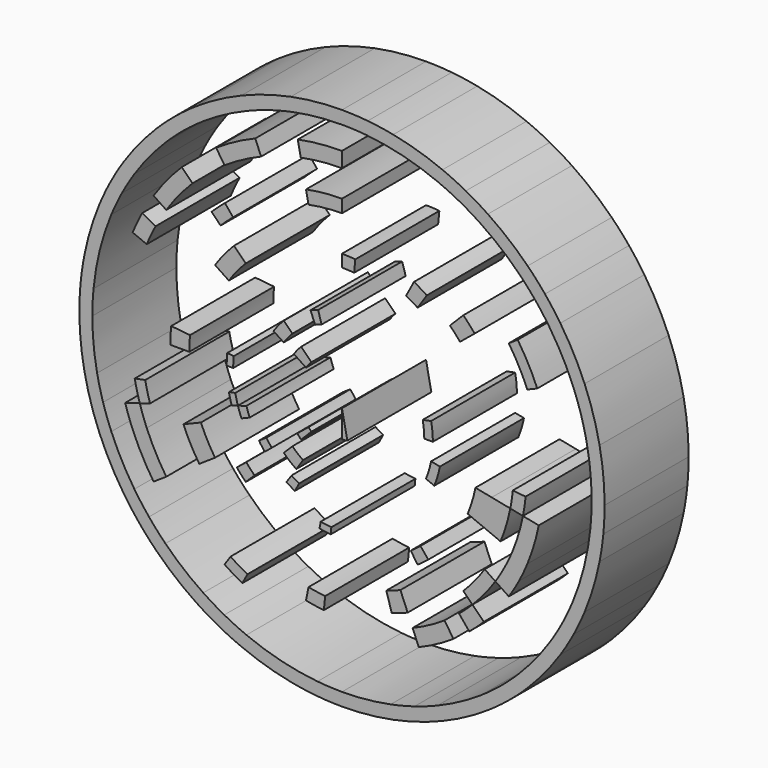
from build123d import *

# Parameters (mm, degrees)
F1_DEPTH = 25.4


with BuildPart() as f1:
    # F0 (on Front) → F1 (new body)
    with BuildSketch(Plane.XZ):
        with BuildLine():
            Line((60.3669561886, 0), (63.5, 0))
            ThreePointArc((63.5, 0), (63.1942301437, 6.2240884109), (62.2798653056, 12.388235448))
            Line((62.2798653056, 12.388235448), (59.2070220526, 11.777008922))
            ThreePointArc((59.2070220526, 11.777008922), (60.0762727946, 5.916996416), (60.3669561886, 0))
        make_face()
        with BuildLine():
            ThreePointArc((63.1942301437, -6.2240884109), (63.423511469, -3.1157973198), (63.5, 0))
            Line((63.5, 0), (60.3669561886, 0))
            ThreePointArc((60.3669561886, 0), (60.2942415462, -2.9620661464), (60.0762727946, -5.916996416))
            Line((60.0762727946, -5.916996416), (63.1942301437, -6.2240884109))
        make_face()
        with BuildLine():
            Line((59.2070220526, 11.777008922), (62.2798653056, 12.388235448))
            ThreePointArc((62.2798653056, 12.388235448), (61.5969845779, 15.4292414239), (60.765711319, 18.4330770057))
            Line((60.765711319, 18.4330770057), (57.7675753223, 17.5236023941))
            ThreePointArc((57.7675753223, 17.5236023941), (58.5578341632, 14.6679738749), (59.2070220526, 11.777008922))
        make_face()
        with BuildLine():
            ThreePointArc((62.2798653056, -12.388235448), (62.8127083828, -9.3173851279), (63.1942301437, -6.2240884109))
            Line((63.1942301437, -6.2240884109), (60.0762727946, -5.916996416))
            ThreePointArc((60.0762727946, -5.916996416), (59.7135750399, -8.857672123), (59.2070220526, -11.777008922))
            Line((59.2070220526, -11.777008922), (62.2798653056, -12.388235448))
        make_face()
        with BuildLine():
            Line((57.7675753223, 17.5236023941), (60.765711319, 18.4330770057))
            ThreePointArc((60.765711319, 18.4330770057), (59.7880481391, 21.3925056904), (58.6663503145, 24.3003979552))
            Line((58.6663503145, 24.3003979552), (55.7717952627, 23.1014339957))
            ThreePointArc((55.7717952627, 23.1014339957), (56.8381493326, 20.3370150201), (57.7675753223, 17.5236023941))
        make_face()
        with BuildLine():
            ThreePointArc((58.6663503145, -24.3003979552), (60.765711319, -18.4330770057), (62.2798653056, -12.388235448))
            Line((62.2798653056, -12.388235448), (59.2070220526, -11.777008922))
            ThreePointArc((59.2070220526, -11.777008922), (57.7675753223, -17.5236023941), (55.7717952627, -23.1014339957))
            Line((55.7717952627, -23.1014339957), (58.6663503145, -24.3003979552))
        make_face()
        with BuildLine():
            Line((55.7717952627, 23.1014339957), (58.6663503145, 24.3003979552))
            ThreePointArc((58.6663503145, 24.3003979552), (56.0020002861, 29.9336927885), (52.7983203812, 35.2787097967))
            Line((52.7983203812, 35.2787097967), (50.1932896581, 33.5380839164))
            ThreePointArc((50.1932896581, 33.5380839164), (53.2389023268, 28.4567861594), (55.7717952627, 23.1014339957))
        make_face()
        with BuildLine():
            ThreePointArc((56.0020002861, -29.9336927885), (57.4033201133, -27.1497484328), (58.6663503145, -24.3003979552))
            Line((58.6663503145, -24.3003979552), (55.7717952627, -23.1014339957))
            ThreePointArc((55.7717952627, -23.1014339957), (54.571082053, -25.8101995933), (53.2389023268, -28.4567861594))
            Line((53.2389023268, -28.4567861594), (56.0020002861, -29.9336927885))
        make_face()
        with BuildLine():
            Line((50.1932896581, 33.5380839164), (52.7983203812, 35.2787097967))
            ThreePointArc((52.7983203812, 35.2787097967), (51.003678249, 37.8269058353), (49.0861637885, 40.2839735444))
            Line((49.0861637885, 40.2839735444), (46.6642881715, 38.2963915915))
            ThreePointArc((46.6642881715, 38.2963915915), (48.4871938633, 35.9605538159), (50.1932896581, 33.5380839164))
        make_face()
        with BuildLine():
            ThreePointArc((52.7983203812, -35.2787097967), (54.465766735, -32.6455242563), (56.0020002861, -29.9336927885))
            Line((56.0020002861, -29.9336927885), (53.2389023268, -28.4567861594))
            ThreePointArc((53.2389023268, -28.4567861594), (51.7784654216, -31.0348178352), (50.1932896581, -33.5380839164))
            Line((50.1932896581, -33.5380839164), (52.7983203812, -35.2787097967))
        make_face()
        with BuildLine():
            Line((46.6642881715, 38.2963915915), (49.0861637885, 40.2839735444))
            ThreePointArc((49.0861637885, 40.2839735444), (47.05039646, 42.6439936328), (44.9012806053, 44.9012806053))
            Line((44.9012806053, 44.9012806053), (42.6858840806, 42.6858840806))
            ThreePointArc((42.6858840806, 42.6858840806), (44.7289641222, 40.5399700053), (46.6642881715, 38.2963915915))
        make_face()
        with BuildLine():
            ThreePointArc((44.9012806053, -44.9012806053), (49.0861637885, -40.2839735444), (52.7983203812, -35.2787097967))
            Line((52.7983203812, -35.2787097967), (50.1932896581, -33.5380839164))
            ThreePointArc((50.1932896581, -33.5380839164), (46.6642881715, -38.2963915915), (42.6858840806, -42.6858840806))
            Line((42.6858840806, -42.6858840806), (44.9012806053, -44.9012806053))
        make_face()
        with BuildLine():
            Line((42.6858840806, 42.6858840806), (44.9012806053, 44.9012806053))
            ThreePointArc((44.9012806053, 44.9012806053), (40.2839735444, 49.0861637885), (35.2787097967, 52.7983203812))
            Line((35.2787097967, 52.7983203812), (33.5380839164, 50.1932896581))
            ThreePointArc((33.5380839164, 50.1932896581), (38.2963915915, 46.6642881715), (42.6858840806, 42.6858840806))
        make_face()
        with BuildLine():
            ThreePointArc((40.2839735444, -49.0861637885), (42.6439936328, -47.05039646), (44.9012806053, -44.9012806053))
            Line((44.9012806053, -44.9012806053), (42.6858840806, -42.6858840806))
            ThreePointArc((42.6858840806, -42.6858840806), (40.5399700053, -44.7289641222), (38.2963915915, -46.6642881715))
            Line((38.2963915915, -46.6642881715), (40.2839735444, -49.0861637885))
        make_face()
        with BuildLine():
            Line((33.5380839164, 50.1932896581), (35.2787097967, 52.7983203812))
            ThreePointArc((35.2787097967, 52.7983203812), (32.6455242563, 54.465766735), (29.9336927885, 56.0020002861))
            Line((29.9336927885, 56.0020002861), (28.4567861594, 53.2389023268))
            ThreePointArc((28.4567861594, 53.2389023268), (31.0348178352, 51.7784654216), (33.5380839164, 50.1932896581))
        make_face()
        with BuildLine():
            ThreePointArc((35.2787097967, -52.7983203812), (37.8269058353, -51.003678249), (40.2839735444, -49.0861637885))
            Line((40.2839735444, -49.0861637885), (38.2963915915, -46.6642881715))
            ThreePointArc((38.2963915915, -46.6642881715), (35.9605538159, -48.4871938633), (33.5380839164, -50.1932896581))
            Line((33.5380839164, -50.1932896581), (35.2787097967, -52.7983203812))
        make_face()
        with BuildLine():
            Line((28.4567861594, 53.2389023268), (29.9336927885, 56.0020002861))
            ThreePointArc((29.9336927885, 56.0020002861), (27.1497484328, 57.4033201133), (24.3003979552, 58.6663503145))
            Line((24.3003979552, 58.6663503145), (23.1014339957, 55.7717952627))
            ThreePointArc((23.1014339957, 55.7717952627), (25.8101995933, 54.571082053), (28.4567861594, 53.2389023268))
        make_face()
        with BuildLine():
            ThreePointArc((24.3003979552, -58.6663503145), (29.9336927885, -56.0020002861), (35.2787097967, -52.7983203812))
            Line((35.2787097967, -52.7983203812), (33.5380839164, -50.1932896581))
            ThreePointArc((33.5380839164, -50.1932896581), (28.4567861594, -53.2389023268), (23.1014339957, -55.7717952627))
            Line((23.1014339957, -55.7717952627), (24.3003979552, -58.6663503145))
        make_face()
        with BuildLine():
            Line((23.1014339957, 55.7717952627), (24.3003979552, 58.6663503145))
            ThreePointArc((24.3003979552, 58.6663503145), (18.4330770057, 60.765711319), (12.388235448, 62.2798653056))
            Line((12.388235448, 62.2798653056), (11.777008922, 59.2070220526))
            ThreePointArc((11.777008922, 59.2070220526), (17.5236023941, 57.7675753223), (23.1014339957, 55.7717952627))
        make_face()
        with BuildLine():
            ThreePointArc((18.4330770057, -60.765711319), (21.3925056904, -59.7880481391), (24.3003979552, -58.6663503145))
            Line((24.3003979552, -58.6663503145), (23.1014339957, -55.7717952627))
            ThreePointArc((23.1014339957, -55.7717952627), (20.3370150201, -56.8381493326), (17.5236023941, -57.7675753223))
            Line((17.5236023941, -57.7675753223), (18.4330770057, -60.765711319))
        make_face()
        with BuildLine():
            Line((11.777008922, 59.2070220526), (12.388235448, 62.2798653056))
            ThreePointArc((12.388235448, 62.2798653056), (9.3173851279, 62.8127083828), (6.2240884109, 63.1942301437))
            Line((6.2240884109, 63.1942301437), (5.916996416, 60.0762727946))
            ThreePointArc((5.916996416, 60.0762727946), (8.857672123, 59.7135750399), (11.777008922, 59.2070220526))
        make_face()
        with BuildLine():
            ThreePointArc((12.388235448, -62.2798653056), (15.4292414239, -61.5969845779), (18.4330770057, -60.765711319))
            Line((18.4330770057, -60.765711319), (17.5236023941, -57.7675753223))
            ThreePointArc((17.5236023941, -57.7675753223), (14.6679738749, -58.5578341632), (11.777008922, -59.2070220526))
            Line((11.777008922, -59.2070220526), (12.388235448, -62.2798653056))
        make_face()
        with BuildLine():
            Line((5.916996416, 60.0762727946), (6.2240884109, 63.1942301437))
            ThreePointArc((6.2240884109, 63.1942301437), (3.1157973198, 63.423511469), (0, 63.5))
            Line((0, 63.5), (0, 60.3669561886))
            ThreePointArc((0, 60.3669561886), (2.9620661464, 60.2942415462), (5.916996416, 60.0762727946))
        make_face()
        with BuildLine():
            ThreePointArc((0, -63.5), (6.2240884109, -63.1942301437), (12.388235448, -62.2798653056))
            Line((12.388235448, -62.2798653056), (11.777008922, -59.2070220526))
            ThreePointArc((11.777008922, -59.2070220526), (5.916996416, -60.0762727946), (0, -60.3669561886))
            Line((0, -60.3669561886), (0, -63.5))
        make_face()
        with BuildLine():
            Line((0, 60.3669561886), (0, 63.5))
            ThreePointArc((0, 63.5), (-6.2240884109, 63.1942301437), (-12.388235448, 62.2798653056))
            Line((-12.388235448, 62.2798653056), (-11.777008922, 59.2070220526))
            ThreePointArc((-11.777008922, 59.2070220526), (-5.916996416, 60.0762727946), (0, 60.3669561886))
        make_face()
        with BuildLine():
            ThreePointArc((-6.2240884109, -63.1942301437), (-3.1157973198, -63.423511469), (0, -63.5))
            Line((0, -63.5), (0, -60.3669561886))
            ThreePointArc((0, -60.3669561886), (-2.9620661464, -60.2942415462), (-5.916996416, -60.0762727946))
            Line((-5.916996416, -60.0762727946), (-6.2240884109, -63.1942301437))
        make_face()
        with BuildLine():
            Line((-11.777008922, 59.2070220526), (-12.388235448, 62.2798653056))
            ThreePointArc((-12.388235448, 62.2798653056), (-15.4292414239, 61.5969845779), (-18.4330770057, 60.765711319))
            Line((-18.4330770057, 60.765711319), (-17.5236023941, 57.7675753223))
            ThreePointArc((-17.5236023941, 57.7675753223), (-14.6679738749, 58.5578341632), (-11.777008922, 59.2070220526))
        make_face()
        with BuildLine():
            ThreePointArc((-12.388235448, -62.2798653056), (-9.3173851279, -62.8127083828), (-6.2240884109, -63.1942301437))
            Line((-6.2240884109, -63.1942301437), (-5.916996416, -60.0762727946))
            ThreePointArc((-5.916996416, -60.0762727946), (-8.857672123, -59.7135750399), (-11.777008922, -59.2070220526))
            Line((-11.777008922, -59.2070220526), (-12.388235448, -62.2798653056))
        make_face()
        with BuildLine():
            Line((-17.5236023941, 57.7675753223), (-18.4330770057, 60.765711319))
            ThreePointArc((-18.4330770057, 60.765711319), (-21.3925056904, 59.7880481391), (-24.3003979552, 58.6663503145))
            Line((-24.3003979552, 58.6663503145), (-23.1014339957, 55.7717952627))
            ThreePointArc((-23.1014339957, 55.7717952627), (-20.3370150201, 56.8381493326), (-17.5236023941, 57.7675753223))
        make_face()
        with BuildLine():
            ThreePointArc((-24.3003979552, -58.6663503145), (-18.4330770057, -60.765711319), (-12.388235448, -62.2798653056))
            Line((-12.388235448, -62.2798653056), (-11.777008922, -59.2070220526))
            ThreePointArc((-11.777008922, -59.2070220526), (-17.5236023941, -57.7675753223), (-23.1014339957, -55.7717952627))
            Line((-23.1014339957, -55.7717952627), (-24.3003979552, -58.6663503145))
        make_face()
        with BuildLine():
            Line((-23.1014339957, 55.7717952627), (-24.3003979552, 58.6663503145))
            ThreePointArc((-24.3003979552, 58.6663503145), (-29.9336927885, 56.0020002861), (-35.2787097967, 52.7983203812))
            Line((-35.2787097967, 52.7983203812), (-33.5380839164, 50.1932896581))
            ThreePointArc((-33.5380839164, 50.1932896581), (-28.4567861594, 53.2389023268), (-23.1014339957, 55.7717952627))
        make_face()
        with BuildLine():
            ThreePointArc((-29.9336927885, -56.0020002861), (-27.1497484328, -57.4033201133), (-24.3003979552, -58.6663503145))
            Line((-24.3003979552, -58.6663503145), (-23.1014339957, -55.7717952627))
            ThreePointArc((-23.1014339957, -55.7717952627), (-25.8101995933, -54.571082053), (-28.4567861594, -53.2389023268))
            Line((-28.4567861594, -53.2389023268), (-29.9336927885, -56.0020002861))
        make_face()
        with BuildLine():
            Line((-33.5380839164, 50.1932896581), (-35.2787097967, 52.7983203812))
            ThreePointArc((-35.2787097967, 52.7983203812), (-37.8269058353, 51.003678249), (-40.2839735444, 49.0861637885))
            Line((-40.2839735444, 49.0861637885), (-38.2963915915, 46.6642881715))
            ThreePointArc((-38.2963915915, 46.6642881715), (-35.9605538159, 48.4871938633), (-33.5380839164, 50.1932896581))
        make_face()
        with BuildLine():
            ThreePointArc((-35.2787097967, -52.7983203812), (-32.6455242563, -54.465766735), (-29.9336927885, -56.0020002861))
            Line((-29.9336927885, -56.0020002861), (-28.4567861594, -53.2389023268))
            ThreePointArc((-28.4567861594, -53.2389023268), (-31.0348178352, -51.7784654216), (-33.5380839164, -50.1932896581))
            Line((-33.5380839164, -50.1932896581), (-35.2787097967, -52.7983203812))
        make_face()
        with BuildLine():
            Line((-38.2963915915, 46.6642881715), (-40.2839735444, 49.0861637885))
            ThreePointArc((-40.2839735444, 49.0861637885), (-42.6439936328, 47.05039646), (-44.9012806053, 44.9012806053))
            Line((-44.9012806053, 44.9012806053), (-42.6858840806, 42.6858840806))
            ThreePointArc((-42.6858840806, 42.6858840806), (-40.5399700053, 44.7289641222), (-38.2963915915, 46.6642881715))
        make_face()
        with BuildLine():
            ThreePointArc((-44.9012806053, -44.9012806053), (-40.2839735444, -49.0861637885), (-35.2787097967, -52.7983203812))
            Line((-35.2787097967, -52.7983203812), (-33.5380839164, -50.1932896581))
            ThreePointArc((-33.5380839164, -50.1932896581), (-38.2963915915, -46.6642881715), (-42.6858840806, -42.6858840806))
            Line((-42.6858840806, -42.6858840806), (-44.9012806053, -44.9012806053))
        make_face()
        with BuildLine():
            Line((-42.6858840806, 42.6858840806), (-44.9012806053, 44.9012806053))
            ThreePointArc((-44.9012806053, 44.9012806053), (-49.0861637885, 40.2839735444), (-52.7983203812, 35.2787097967))
            Line((-52.7983203812, 35.2787097967), (-50.1932896581, 33.5380839164))
            ThreePointArc((-50.1932896581, 33.5380839164), (-46.6642881715, 38.2963915915), (-42.6858840806, 42.6858840806))
        make_face()
        with BuildLine():
            ThreePointArc((-49.0861637885, -40.2839735444), (-47.05039646, -42.6439936328), (-44.9012806053, -44.9012806053))
            Line((-44.9012806053, -44.9012806053), (-42.6858840806, -42.6858840806))
            ThreePointArc((-42.6858840806, -42.6858840806), (-44.7289641222, -40.5399700053), (-46.6642881715, -38.2963915915))
            Line((-46.6642881715, -38.2963915915), (-49.0861637885, -40.2839735444))
        make_face()
        with BuildLine():
            Line((-50.1932896581, 33.5380839164), (-52.7983203812, 35.2787097967))
            ThreePointArc((-52.7983203812, 35.2787097967), (-54.465766735, 32.6455242563), (-56.0020002861, 29.9336927885))
            Line((-56.0020002861, 29.9336927885), (-53.2389023268, 28.4567861594))
            ThreePointArc((-53.2389023268, 28.4567861594), (-51.7784654216, 31.0348178352), (-50.1932896581, 33.5380839164))
        make_face()
        with BuildLine():
            ThreePointArc((-52.7983203812, -35.2787097967), (-51.003678249, -37.8269058353), (-49.0861637885, -40.2839735444))
            Line((-49.0861637885, -40.2839735444), (-46.6642881715, -38.2963915915))
            ThreePointArc((-46.6642881715, -38.2963915915), (-48.4871938633, -35.9605538159), (-50.1932896581, -33.5380839164))
            Line((-50.1932896581, -33.5380839164), (-52.7983203812, -35.2787097967))
        make_face()
        with BuildLine():
            Line((-53.2389023268, 28.4567861594), (-56.0020002861, 29.9336927885))
            ThreePointArc((-56.0020002861, 29.9336927885), (-57.4033201133, 27.1497484328), (-58.6663503145, 24.3003979552))
            Line((-58.6663503145, 24.3003979552), (-55.7717952627, 23.1014339957))
            ThreePointArc((-55.7717952627, 23.1014339957), (-54.571082053, 25.8101995933), (-53.2389023268, 28.4567861594))
        make_face()
        with BuildLine():
            ThreePointArc((-58.6663503145, -24.3003979552), (-56.0020002861, -29.9336927885), (-52.7983203812, -35.2787097967))
            Line((-52.7983203812, -35.2787097967), (-50.1932896581, -33.5380839164))
            ThreePointArc((-50.1932896581, -33.5380839164), (-53.2389023268, -28.4567861594), (-55.7717952627, -23.1014339957))
            Line((-55.7717952627, -23.1014339957), (-58.6663503145, -24.3003979552))
        make_face()
        with BuildLine():
            Line((-55.7717952627, 23.1014339957), (-58.6663503145, 24.3003979552))
            ThreePointArc((-58.6663503145, 24.3003979552), (-60.765711319, 18.4330770057), (-62.2798653056, 12.388235448))
            Line((-62.2798653056, 12.388235448), (-59.2070220526, 11.777008922))
            ThreePointArc((-59.2070220526, 11.777008922), (-57.7675753223, 17.5236023941), (-55.7717952627, 23.1014339957))
        make_face()
        with BuildLine():
            ThreePointArc((-60.765711319, -18.4330770057), (-59.7880481391, -21.3925056904), (-58.6663503145, -24.3003979552))
            Line((-58.6663503145, -24.3003979552), (-55.7717952627, -23.1014339957))
            ThreePointArc((-55.7717952627, -23.1014339957), (-56.8381493326, -20.3370150201), (-57.7675753223, -17.5236023941))
            Line((-57.7675753223, -17.5236023941), (-60.765711319, -18.4330770057))
        make_face()
        with BuildLine():
            Line((-59.2070220526, 11.777008922), (-62.2798653056, 12.388235448))
            ThreePointArc((-62.2798653056, 12.388235448), (-62.8127083828, 9.3173851279), (-63.1942301437, 6.2240884109))
            Line((-63.1942301437, 6.2240884109), (-60.0762727946, 5.916996416))
            ThreePointArc((-60.0762727946, 5.916996416), (-59.7135750399, 8.857672123), (-59.2070220526, 11.777008922))
        make_face()
        with BuildLine():
            ThreePointArc((-62.2798653056, -12.388235448), (-61.5969845779, -15.4292414239), (-60.765711319, -18.4330770057))
            Line((-60.765711319, -18.4330770057), (-57.7675753223, -17.5236023941))
            ThreePointArc((-57.7675753223, -17.5236023941), (-58.5578341632, -14.6679738749), (-59.2070220526, -11.777008922))
            Line((-59.2070220526, -11.777008922), (-62.2798653056, -12.388235448))
        make_face()
        with BuildLine():
            Line((-60.0762727946, 5.916996416), (-63.1942301437, 6.2240884109))
            ThreePointArc((-63.1942301437, 6.2240884109), (-63.423511469, 3.1157973198), (-63.5, 0))
            Line((-63.5, 0), (-60.3669561886, 0))
            ThreePointArc((-60.3669561886, 0), (-60.2942415462, 2.9620661464), (-60.0762727946, 5.916996416))
        make_face()
        with BuildLine():
            ThreePointArc((-63.5, 0), (-63.1942301437, -6.2240884109), (-62.2798653056, -12.388235448))
            Line((-62.2798653056, -12.388235448), (-59.2070220526, -11.777008922))
            ThreePointArc((-59.2070220526, -11.777008922), (-60.0762727946, -5.916996416), (-60.3669561886, 0))
            Line((-60.3669561886, 0), (-63.5, 0))
        make_face()
    extrude(amount=F1_DEPTH)


with BuildPart() as f1b:
    # F0 (on Front) → F1, piece 2 (new body)
    with BuildSketch(Plane.XZ):
        with BuildLine():
            ThreePointArc((-10.3580373147, -19.3785248203), (-11.29641975, -18.8469377368), (-12.2075881206, -18.2699467296))
            Line((-12.2075881206, -18.2699467296), (-13.4172533556, -20.0803386911))
            ThreePointArc((-13.4172533556, -20.0803386911), (-12.415796167, -20.7145044617), (-11.384428238, -21.2987671768))
            Line((-11.384428238, -21.2987671768), (-10.3580373147, -19.3785248203))
        make_face()
    extrude(amount=F1_DEPTH)


with BuildPart() as f1c:
    # F0 (on Front) → F1, piece 3 (new body)
    with BuildSketch(Plane.XZ):
        with BuildLine():
            ThreePointArc((-5.4382230998, -27.3397937564), (-4.0901724256, -27.5737027375), (-2.7322681679, -27.7411842534))
            Line((-2.7322681679, -27.7411842534), (-2.5780778144, -26.1756633221))
            ThreePointArc((-2.5780778144, -26.1756633221), (-3.85935133, -26.0176333067), (-5.1313273301, -25.7969245337))
            Line((-5.1313273301, -25.7969245337), (-5.4382230998, -27.3397937564))
        make_face()
    extrude(amount=F1_DEPTH)


with BuildPart() as f1d:
    # F0 (on Front) → F1, piece 4 (new body)
    with BuildSketch(Plane.XZ):
        with BuildLine():
            ThreePointArc((12.0464055665, -39.7116771585), (13.9804547853, -39.0727535991), (15.8808238639, -38.3397003538))
            Line((15.8808238639, -38.3397003538), (14.1270282709, -34.1056632476))
            ThreePointArc((14.1270282709, -34.1056632476), (12.4365260697, -34.757761905), (10.7160631879, -35.3261260695))
            Line((10.7160631879, -35.3261260695), (12.0464055665, -39.7116771585))
        make_face()
        with BuildLine():
            ThreePointArc((12.0464055665, -39.7116771585), (13.9804547853, -39.0727535991), (15.8808238639, -38.3397003538))
            Line((15.8808238639, -38.3397003538), (14.1270282709, -34.1056632476))
            ThreePointArc((14.1270282709, -34.1056632476), (12.4365260697, -34.757761905), (10.7160631879, -35.3261260695))
            Line((10.7160631879, -35.3261260695), (12.0464055665, -39.7116771585))
        make_face()
    extrude(amount=F1_DEPTH)


with BuildPart() as f1e:
    # F0 (on Front) → F1, piece 5 (new body)
    with BuildSketch(Plane.XZ):
        with BuildLine():
            Line((19.8987640035, 0), (21.9730781008, 0))
            ThreePointArc((21.9730781008, 0), (21.8672717239, 2.1537382797), (21.5508715664, 4.2867348824))
            Line((21.5508715664, 4.2867348824), (19.5164148328, 3.8820562772))
            ThreePointArc((19.5164148328, 3.8820562772), (19.8029460159, 1.9504199437), (19.8987640035, 0))
        make_face()
    extrude(amount=F1_DEPTH)


with BuildPart() as f1f:
    # F0 (on Front) → F1, piece 6 (new body)
    with BuildSketch(Plane.XZ):
        with BuildLine():
            Line((-7.6149273087, 18.3840607851), (-6.4874897925, 15.6621858427))
            ThreePointArc((-6.4874897925, 15.6621858427), (-5.7111682927, 15.9616460903), (-4.9210880883, 16.2226533343))
            Line((-4.9210880883, 16.2226533343), (-5.7763062865, 19.0419299061))
            ThreePointArc((-5.7763062865, 19.0419299061), (-6.7036916878, 18.7355631519), (-7.6149273087, 18.3840607851))
        make_face()
    extrude(amount=F1_DEPTH)


with BuildPart() as f1g:
    # F0 (on Front) → F1, piece 7 (new body)
    with BuildSketch(Plane.XZ):
        with BuildLine():
            ThreePointArc((-14.0955948608, 9.4183753747), (-13.104558498, 10.7546332225), (-11.9873180733, 11.9873180733))
            Line((-11.9873180733, 11.9873180733), (-14.0705509641, 14.0705509641))
            ThreePointArc((-14.0705509641, 14.0705509641), (-15.3819525837, 12.623642247), (-16.5452175913, 11.0551609542))
            Line((-16.5452175913, 11.0551609542), (-14.0955948608, 9.4183753747))
        make_face()
    extrude(amount=F1_DEPTH)


with BuildPart() as f1h:
    # F0 (on Front) → F1, piece 8 (new body)
    with BuildSketch(Plane.XZ):
        with BuildLine():
            ThreePointArc((-8.6942548596, 5.8093153698), (-8.0829771662, 6.6335279271), (-7.3938559841, 7.3938559841))
            Line((-7.3938559841, 7.3938559841), (-9.8860952035, 9.8860952035))
            ThreePointArc((-9.8860952035, 9.8860952035), (-10.8074977339, 8.8694841721), (-11.624818153, 7.7674551596))
            Line((-11.624818153, 7.7674551596), (-8.6942548596, 5.8093153698))
        make_face()
    extrude(amount=F1_DEPTH)


with BuildPart() as f1i:
    # F0 (on Front) → F1, piece 9 (new body)
    with BuildSketch(Plane.XZ):
        with BuildLine():
            Line((-27.8754119813, 0), (-26.3023161636, 0))
            ThreePointArc((-26.3023161636, 0), (-26.2706338718, 1.2905934836), (-26.1756633221, 2.5780778144))
            Line((-26.1756633221, 2.5780778144), (-27.7411842534, 2.7322681679))
            ThreePointArc((-27.7411842534, 2.7322681679), (-27.8418348267, 1.3677816368), (-27.8754119813, 0))
        make_face()
    extrude(amount=F1_DEPTH)


with BuildPart() as f1j:
    # F0 (on Front) → F1, piece 10 (new body)
    with BuildSketch(Plane.XZ):
        with BuildLine():
            ThreePointArc((18.2788506276, -27.3562331842), (19.5991396922, -26.4263807136), (20.8722127126, -25.4328647772))
            Line((20.8722127126, -25.4328647772), (18.9886301714, -23.1377128099))
            ThreePointArc((18.9886301714, -23.1377128099), (17.8304437779, -24.0415703427), (16.6293022836, -24.8875096267))
            Line((16.6293022836, -24.8875096267), (18.2788506276, -27.3562331842))
        make_face()
    extrude(amount=F1_DEPTH)


with BuildPart() as f1k:
    # F0 (on Front) → F1, piece 11 (new body)
    with BuildSketch(Plane.XZ):
        with BuildLine():
            ThreePointArc((-8.7031238986, -43.7535584803), (-6.5457552465, -44.127897452), (-4.3726172967, -44.3959284536))
            Line((-4.3726172967, -44.3959284536), (-4.0675733768, -41.2987655583))
            ThreePointArc((-4.0675733768, -41.2987655583), (-6.089108185, -41.0494330208), (-8.0959737983, -40.7012088036))
            Line((-8.0959737983, -40.7012088036), (-8.7031238986, -43.7535584803))
        make_face()
    extrude(amount=F1_DEPTH)


with BuildPart() as f1l:
    # F0 (on Front) → F1, piece 12 (new body)
    with BuildSketch(Plane.XZ):
        with BuildLine():
            ThreePointArc((-28.390208235, -42.4889492477), (-26.2711770616, -43.8308109393), (-24.0888563216, -45.0670803683))
            Line((-24.0888563216, -45.0670803683), (-22.8659985447, -42.7792743813))
            ThreePointArc((-22.8659985447, -42.7792743813), (-24.9375349513, -41.605763502), (-26.948994652, -40.3320206943))
            Line((-26.948994652, -40.3320206943), (-28.390208235, -42.4889492477))
        make_face()
    extrude(amount=F1_DEPTH)


with BuildPart() as f1m:
    # F0 (on Front) → F1, piece 13 (new body)
    with BuildSketch(Plane.XZ):
        with BuildLine():
            ThreePointArc((-50.6181592028, -20.9667280442), (-48.3193202059, -25.8272147316), (-45.5551397414, -30.4389712227))
            Line((-45.5551397414, -30.4389712227), (-42.4889492477, -28.390208235))
            ThreePointArc((-42.4889492477, -28.390208235), (-45.0670803683, -24.0888563216), (-47.2111908687, -19.5555155536))
            Line((-47.2111908687, -19.5555155536), (-50.6181592028, -20.9667280442))
        make_face()
        with BuildLine():
            ThreePointArc((-52.4295176558, -15.904320304), (-51.5859759966, -18.4577573512), (-50.6181592028, -20.9667280442))
            Line((-50.6181592028, -20.9667280442), (-47.2111908687, -19.5555155536))
            ThreePointArc((-47.2111908687, -19.5555155536), (-48.1138665901, -17.2154167405), (-48.9006317927, -14.8338444806))
            Line((-48.9006317927, -14.8338444806), (-52.4295176558, -15.904320304))
        make_face()
    extrude(amount=F1_DEPTH)


with BuildPart() as f1n:
    # F0 (on Front) → F1, piece 14 (new body)
    with BuildSketch(Plane.XZ):
        with BuildLine():
            ThreePointArc((-50.1191329008, -9.9693153763), (-49.5695910901, -12.4165361901), (-48.9006317927, -14.8338444806))
            Line((-48.9006317927, -14.8338444806), (-46.4182176388, -14.0808123797))
            ThreePointArc((-46.4182176388, -14.0808123797), (-47.0532175789, -11.7862174386), (-47.5748621965, -9.4632284673))
            Line((-47.5748621965, -9.4632284673), (-50.1191329008, -9.9693153763))
        make_face()
    extrude(amount=F1_DEPTH)


with BuildPart() as f1o:
    # F0 (on Front) → F1, piece 15 (new body)
    with BuildSketch(Plane.XZ):
        with BuildLine():
            ThreePointArc((34.1056632476, -14.1270282709), (35.3261260695, -10.7160631879), (36.2063789862, -7.2018965584))
            Line((36.2063789862, -7.2018965584), (32.2688772234, -6.4186787612))
            ThreePointArc((32.2688772234, -6.4186787612), (31.4843532227, -9.5506741356), (30.3966176894, -12.5906912972))
            Line((30.3966176894, -12.5906912972), (34.1056632476, -14.1270282709))
        make_face()
        with BuildLine():
            ThreePointArc((38.3397003538, -15.8808238639), (39.7116771585, -12.0464055665), (40.7012088036, -8.0959737983))
            Line((40.7012088036, -8.0959737983), (36.2063789862, -7.2018965584))
            ThreePointArc((36.2063789862, -7.2018965584), (35.3261260695, -10.7160631879), (34.1056632476, -14.1270282709))
            Line((34.1056632476, -14.1270282709), (38.3397003538, -15.8808238639))
        make_face()
    extrude(amount=F1_DEPTH)


with BuildPart() as f1p:
    # F0 (on Front) → F1, piece 16 (new body)
    with BuildSketch(Plane.XZ):
        with BuildLine():
            ThreePointArc((44.8145402705, -18.5627903716), (46.4182176388, -14.0808123797), (47.5748621965, -9.4632284673))
            Line((47.5748621965, -9.4632284673), (43.7535584803, -8.7031238986))
            ThreePointArc((43.7535584803, -8.7031238986), (42.6898178206, -12.9498146597), (41.2149508788, -17.0717916265))
            Line((41.2149508788, -17.0717916265), (44.8145402705, -18.5627903716))
        make_face()
        with BuildLine():
            ThreePointArc((42.7792743813, -22.8659985447), (43.8497262416, -20.7393759447), (44.8145402705, -18.5627903716))
            Line((44.8145402705, -18.5627903716), (41.2149508788, -17.0717916265))
            ThreePointArc((41.2149508788, -17.0717916265), (40.3276325537, -19.073549693), (39.3431614296, -21.0293579076))
            Line((39.3431614296, -21.0293579076), (42.7792743813, -22.8659985447))
        make_face()
        with BuildLine():
            ThreePointArc((40.3320206943, -26.948994652), (41.605763502, -24.9375349513), (42.7792743813, -22.8659985447))
            Line((42.7792743813, -22.8659985447), (39.3431614296, -21.0293579076))
            ThreePointArc((39.3431614296, -21.0293579076), (38.2639091835, -22.9345045571), (37.0924758286, -24.7843999762))
            Line((37.0924758286, -24.7843999762), (40.3320206943, -26.948994652))
        make_face()
    extrude(amount=F1_DEPTH)


with BuildPart() as f1q:
    # F0 (on Front) → F1, piece 17 (new body)
    with BuildSketch(Plane.XZ):
        with BuildLine():
            ThreePointArc((31.5445577341, -31.5445577341), (34.4845694087, -28.3007547245), (37.0924758286, -24.7843999762))
            Line((37.0924758286, -24.7843999762), (34.5048187206, -23.0553827744))
            ThreePointArc((34.5048187206, -23.0553827744), (32.0788458986, -26.3264284632), (29.3439362545, -29.3439362545))
            Line((29.3439362545, -29.3439362545), (31.5445577341, -31.5445577341))
        make_face()
    extrude(amount=F1_DEPTH)


with BuildPart() as f1r:
    # F0 (on Front) → F1, piece 18 (new body)
    with BuildSketch(Plane.XZ):
        with BuildLine():
            ThreePointArc((30.772457209, -37.4963476002), (32.5752490092, -35.9412486988), (34.2995641812, -34.2995641812))
            Line((34.2995641812, -34.2995641812), (31.5445577341, -31.5445577341))
            ThreePointArc((31.5445577341, -31.5445577341), (29.9587428471, -33.0543790185), (28.3007547245, -34.4845694087))
            Line((28.3007547245, -34.4845694087), (30.772457209, -37.4963476002))
        make_face()
    extrude(amount=F1_DEPTH)


with BuildPart() as f1s:
    # F0 (on Front) → F1, piece 19 (new body)
    with BuildSketch(Plane.XZ):
        with BuildLine():
            ThreePointArc((18.5627903716, -44.8145402705), (22.8659985447, -42.7792743813), (26.948994652, -40.3320206943))
            Line((26.948994652, -40.3320206943), (24.7843999762, -37.0924758286))
            ThreePointArc((24.7843999762, -37.0924758286), (21.0293579076, -39.3431614296), (17.0717916265, -41.2149508788))
            Line((17.0717916265, -41.2149508788), (18.5627903716, -44.8145402705))
        make_face()
    extrude(amount=F1_DEPTH)


with BuildPart() as f1t:
    # F0 (on Front) → F1, piece 20 (new body)
    with BuildSketch(Plane.XZ):
        with BuildLine():
            Line((1.2889827465, -6.4801538661), (0, 0))
            Line((0, 0), (0, -6.6071075857))
            ThreePointArc((0, -6.6071075857), (0.6476097914, -6.5752925567), (1.2889827465, -6.4801538661))
        make_face()
    extrude(amount=F1_DEPTH)


with BuildPart() as f1u:
    # F0 (on Front) → F1, piece 21 (new body)
    with BuildSketch(Plane.XZ):
        with BuildLine():
            Line((0, 41.4985926245), (0, 44.6107413666))
            ThreePointArc((0, 44.6107413666), (-4.3726172967, 44.3959284536), (-8.7031238986, 43.7535584803))
            Line((-8.7031238986, 43.7535584803), (-8.0959737983, 40.7012088036))
            ThreePointArc((-8.0959737983, 40.7012088036), (-4.0675733768, 41.2987655583), (0, 41.4985926245))
        make_face()
    extrude(amount=F1_DEPTH)


with BuildPart() as f1v:
    # F0 (on Front) → F1, piece 22 (new body)
    with BuildSketch(Plane.XZ):
        with BuildLine():
            Line((-26.3264284632, 32.0788458986), (-28.3007547245, 34.4845694087))
            ThreePointArc((-28.3007547245, 34.4845694087), (-29.9587428471, 33.0543790185), (-31.5445577341, 31.5445577341))
            Line((-31.5445577341, 31.5445577341), (-29.3439362545, 29.3439362545))
            ThreePointArc((-29.3439362545, 29.3439362545), (-27.8687514905, 30.7484289058), (-26.3264284632, 32.0788458986))
        make_face()
    extrude(amount=F1_DEPTH)


with BuildPart() as f1w:
    # F0 (on Front) → F1, piece 23 (new body)
    with BuildSketch(Plane.XZ):
        with BuildLine():
            Line((-9.8860952035, -9.8860952035), (-7.3938559841, -7.3938559841))
            ThreePointArc((-7.3938559841, -7.3938559841), (-7.7477490783, -7.0221504433), (-8.0829771662, -6.6335279271))
            Line((-8.0829771662, -6.6335279271), (-10.8074977339, -8.8694841721))
            ThreePointArc((-10.8074977339, -8.8694841721), (-10.3592746687, -9.3890992691), (-9.8860952035, -9.8860952035))
        make_face()
    extrude(amount=F1_DEPTH)


with BuildPart() as f1x:
    # F0 (on Front) → F1, piece 24 (new body)
    with BuildSketch(Plane.XZ):
        with BuildLine():
            ThreePointArc((-25.1697472601, -7.6351593586), (-25.5140687101, -6.3909415133), (-25.7969245337, -5.1313273301))
            Line((-25.7969245337, -5.1313273301), (-27.3397937564, -5.4382230998))
            ThreePointArc((-27.3397937564, -5.4382230998), (-27.0400208175, -6.7731726181), (-26.6751061, -8.0918049703))
            Line((-26.6751061, -8.0918049703), (-25.1697472601, -7.6351593586))
        make_face()
    extrude(amount=F1_DEPTH)


with BuildPart() as f1y:
    # F0 (on Front) → F1, piece 25 (new body)
    with BuildSketch(Plane.XZ):
        with BuildLine():
            ThreePointArc((-38.3397003538, -15.8808238639), (-36.5984912761, -19.5623011461), (-34.5048187206, -23.0553827744))
            Line((-34.5048187206, -23.0553827744), (-30.6942859972, -20.5092662095))
            ThreePointArc((-30.6942859972, -20.5092662095), (-32.5567442446, -17.401942349), (-34.1056632476, -14.1270282709))
            Line((-34.1056632476, -14.1270282709), (-38.3397003538, -15.8808238639))
        make_face()
    extrude(amount=F1_DEPTH)


with BuildPart() as f1z:
    # F0 (on Front) → F1, piece 26 (new body)
    with BuildSketch(Plane.XZ):
        with BuildLine():
            ThreePointArc((-25.4328647772, -20.8722127126), (-24.3780788418, -22.0950027444), (-23.2645639793, -23.2645639793))
            Line((-23.2645639793, -23.2645639793), (-21.1650871704, -21.1650871704))
            ThreePointArc((-21.1650871704, -21.1650871704), (-22.1781145003, -20.1010712916), (-23.1377128099, -18.9886301714))
            Line((-23.1377128099, -18.9886301714), (-25.4328647772, -20.8722127126))
        make_face()
    extrude(amount=F1_DEPTH)


with BuildPart() as f1ba:
    # F0 (on Front) → F1, piece 27 (new body)
    with BuildSketch(Plane.XZ):
        with BuildLine():
            ThreePointArc((-16.9854190645, -13.9395731795), (-17.6489418204, -13.0893473422), (-18.2699467296, -12.2075881206))
            Line((-18.2699467296, -12.2075881206), (-20.0803386911, -13.4172533556))
            ThreePointArc((-20.0803386911, -13.4172533556), (-19.3977976257, -14.3863872056), (-18.6685255668, -15.3208629887))
            Line((-18.6685255668, -15.3208629887), (-16.9854190645, -13.9395731795))
        make_face()
    extrude(amount=F1_DEPTH)


with BuildPart() as f1bb:
    # F0 (on Front) → F1, piece 28 (new body)
    with BuildSketch(Plane.XZ):
        with BuildLine():
            Line((2.9338444694, 29.7878227886), (3.2248680015, 32.7426342964))
            ThreePointArc((3.2248680015, 32.7426342964), (1.6143785904, 32.8614311323), (0, 32.9010619022))
            Line((0, 32.9010619022), (0, 29.9319533251))
            ThreePointArc((0, 29.9319533251), (1.4686913377, 29.8958989765), (2.9338444694, 29.7878227886))
        make_face()
    extrude(amount=F1_DEPTH)


with BuildPart() as f1bc:
    # F0 (on Front) → F1, piece 29 (new body)
    with BuildSketch(Plane.XZ):
        with BuildLine():
            Line((-23.2645639793, 23.2645639793), (-26.1033445494, 26.1033445494))
            ThreePointArc((-26.1033445494, 26.1033445494), (-28.5362249964, 23.4190746248), (-30.6942859972, 20.5092662095))
            Line((-30.6942859972, 20.5092662095), (-27.3562331842, 18.2788506276))
            ThreePointArc((-27.3562331842, 18.2788506276), (-25.4328647772, 20.8722127126), (-23.2645639793, 23.2645639793))
        make_face()
    extrude(amount=F1_DEPTH)


with BuildPart() as f1bd:
    # F0 (on Front) → F1, piece 30 (new body)
    with BuildSketch(Plane.XZ):
        with BuildLine():
            Line((-24.3001715612, -10.0654606286), (-22.3120768914, -9.2419648531))
            ThreePointArc((-22.3120768914, -9.2419648531), (-22.7386827392, -8.1360307793), (-23.1105091086, -7.0104962946))
            Line((-23.1105091086, -7.0104962946), (-25.1697472601, -7.6351593586))
            ThreePointArc((-25.1697472601, -7.6351593586), (-24.7647896844, -8.8609834362), (-24.3001715612, -10.0654606286))
        make_face()
    extrude(amount=F1_DEPTH)


with BuildPart() as f1be:
    # F0 (on Front) → F1, piece 31 (new body)
    with BuildSketch(Plane.XZ):
        with BuildLine():
            ThreePointArc((22.3120768914, -9.2419648531), (23.1105091086, -7.0104962946), (23.6863744896, -4.7115128244))
            Line((23.6863744896, -4.7115128244), (21.5508715664, -4.2867348824))
            ThreePointArc((21.5508715664, -4.2867348824), (21.0269247348, -6.3784478848), (20.3004771236, -8.4087329472))
            Line((20.3004771236, -8.4087329472), (22.3120768914, -9.2419648531))
        make_face()
    extrude(amount=F1_DEPTH)


with BuildPart() as f1bf:
    # F0 (on Front) → F1, piece 32 (new body)
    with BuildSketch(Plane.XZ):
        with BuildLine():
            Line((28.5362249964, 23.4190746248), (32.0788458986, 26.3264284632))
            ThreePointArc((32.0788458986, 26.3264284632), (30.7484289058, 27.8687514905), (29.3439362545, 29.3439362545))
            Line((29.3439362545, 29.3439362545), (26.1033445494, 26.1033445494))
            ThreePointArc((26.1033445494, 26.1033445494), (27.3527323369, 24.7910715185), (28.5362249964, 23.4190746248))
        make_face()
    extrude(amount=F1_DEPTH)


with BuildPart() as f1bg:
    # F0 (on Front) → F1, piece 33 (new body)
    with BuildSketch(Plane.XZ):
        with BuildLine():
            Line((18.2788506276, 27.3562331842), (20.5092662095, 30.6942859972))
            ThreePointArc((20.5092662095, 30.6942859972), (18.9784646711, 31.6636553805), (17.401942349, 32.5567442446))
            Line((17.401942349, 32.5567442446), (15.5094532188, 29.0161461112))
            ThreePointArc((15.5094532188, 29.0161461112), (16.9145262108, 28.2201820929), (18.2788506276, 27.3562331842))
        make_face()
    extrude(amount=F1_DEPTH)


with BuildPart() as f1bh:
    # F0 (on Front) → F1, piece 34 (new body)
    with BuildSketch(Plane.XZ):
        with BuildLine():
            Line((0, 51.1010247627), (0, 54.7887007143))
            ThreePointArc((0, 54.7887007143), (-5.3702317664, 54.524878145), (-10.6887452652, 53.735951193))
            Line((-10.6887452652, 53.735951193), (-9.9693153763, 50.1191329008))
            ThreePointArc((-9.9693153763, 50.1191329008), (-5.0087763152, 50.8549593612), (0, 51.1010247627))
        make_face()
    extrude(amount=F1_DEPTH)


with BuildPart() as f1bi:
    # F0 (on Front) → F1, piece 35 (new body)
    with BuildSketch(Plane.XZ):
        with BuildLine():
            Line((-19.5555155536, 47.2111908687), (-20.9667280442, 50.6181592028))
            ThreePointArc((-20.9667280442, 50.6181592028), (-25.8272147316, 48.3193202059), (-30.4389712227, 45.5551397414))
            Line((-30.4389712227, 45.5551397414), (-28.390208235, 42.4889492477))
            ThreePointArc((-28.390208235, 42.4889492477), (-24.0888563216, 45.0670803683), (-19.5555155536, 47.2111908687))
        make_face()
    extrude(amount=F1_DEPTH)


with BuildPart() as f1bj:
    # F0 (on Front) → F1, piece 36 (new body)
    with BuildSketch(Plane.XZ):
        with BuildLine():
            Line((-36.1338811353, 36.1338811353), (-38.7414618075, 38.7414618075))
            ThreePointArc((-38.7414618075, 38.7414618075), (-42.3522383783, 34.7575837812), (-45.5551397414, 30.4389712227))
            Line((-45.5551397414, 30.4389712227), (-42.4889492477, 28.390208235))
            ThreePointArc((-42.4889492477, 28.390208235), (-39.5016263192, 32.4181469234), (-36.1338811353, 36.1338811353))
        make_face()
    extrude(amount=F1_DEPTH)


with BuildPart() as f1bk:
    # F0 (on Front) → F1, piece 37 (new body)
    with BuildSketch(Plane.XZ):
        with BuildLine():
            Line((-45.0670803683, 24.0888563216), (-48.3193202059, 25.8272147316))
            ThreePointArc((-48.3193202059, 25.8272147316), (-49.5283988298, 23.4251880528), (-50.6181592028, 20.9667280442))
            Line((-50.6181592028, 20.9667280442), (-47.2111908687, 19.5555155536))
            ThreePointArc((-47.2111908687, 19.5555155536), (-46.1947792532, 21.8485034168), (-45.0670803683, 24.0888563216))
        make_face()
    extrude(amount=F1_DEPTH)


with BuildPart() as f1bl:
    # F0 (on Front) → F1, piece 38 (new body)
    with BuildSketch(Plane.XZ):
        with BuildLine():
            Line((-36.7379446807, 3.6183717281), (-41.2987655583, 4.0675733768))
            ThreePointArc((-41.2987655583, 4.0675733768), (-41.4486057523, 2.0362394279), (-41.4985926245, 0))
            Line((-41.4985926245, 0), (-36.915703885, 0))
            ThreePointArc((-36.915703885, 0), (-36.871237303, 1.8113677358), (-36.7379446807, 3.6183717281))
        make_face()
    extrude(amount=F1_DEPTH)


with BuildPart() as f1bm:
    # F0 (on Front) → F1, piece 39 (new body)
    with BuildSketch(Plane.XZ):
        with BuildLine():
            ThreePointArc((-9.4183753747, -14.0955948608), (-10.7546332225, -13.104558498), (-11.9873180733, -11.9873180733))
            Line((-11.9873180733, -11.9873180733), (-14.0705509641, -14.0705509641))
            ThreePointArc((-14.0705509641, -14.0705509641), (-12.623642247, -15.3819525837), (-11.0551609542, -16.5452175913))
            Line((-11.0551609542, -16.5452175913), (-9.4183753747, -14.0955948608))
        make_face()
    extrude(amount=F1_DEPTH)


with BuildPart() as f1bn:
    # F0 (on Front) → F1, piece 40 (new body)
    with BuildSketch(Plane.XZ):
        with BuildLine():
            ThreePointArc((43.7535584803, -8.7031238986), (44.127897452, -6.5457552465), (44.3959284536, -4.3726172967))
            Line((44.3959284536, -4.3726172967), (41.2987655583, -4.0675733768))
            ThreePointArc((41.2987655583, -4.0675733768), (41.0494330208, -6.089108185), (40.7012088036, -8.0959737983))
            Line((40.7012088036, -8.0959737983), (43.7535584803, -8.7031238986))
        make_face()
    extrude(amount=F1_DEPTH)


with BuildPart() as f1bo:
    # F0 (on Front) → F1, piece 41 (new body)
    with BuildSketch(Plane.XZ):
        with BuildLine():
            Line((44.8145402705, 18.5627903716), (47.2111908687, 19.5555155536))
            ThreePointArc((47.2111908687, 19.5555155536), (45.0670803683, 24.0888563216), (42.4889492477, 28.390208235))
            Line((42.4889492477, 28.390208235), (40.3320206943, 26.948994652))
            ThreePointArc((40.3320206943, 26.948994652), (42.7792743813, 22.8659985447), (44.8145402705, 18.5627903716))
        make_face()
    extrude(amount=F1_DEPTH)


solid = Compound([f1.part, f1b.part, f1c.part, f1d.part, f1e.part, f1f.part, f1g.part, f1h.part, f1i.part, f1j.part, f1k.part, f1l.part, f1m.part, f1n.part, f1o.part, f1p.part, f1q.part, f1r.part, f1s.part, f1t.part, f1u.part, f1v.part, f1w.part, f1x.part, f1y.part, f1z.part, f1ba.part, f1bb.part, f1bc.part, f1bd.part, f1be.part, f1bf.part, f1bg.part, f1bh.part, f1bi.part, f1bj.part, f1bk.part, f1bl.part, f1bm.part, f1bn.part, f1bo.part])
